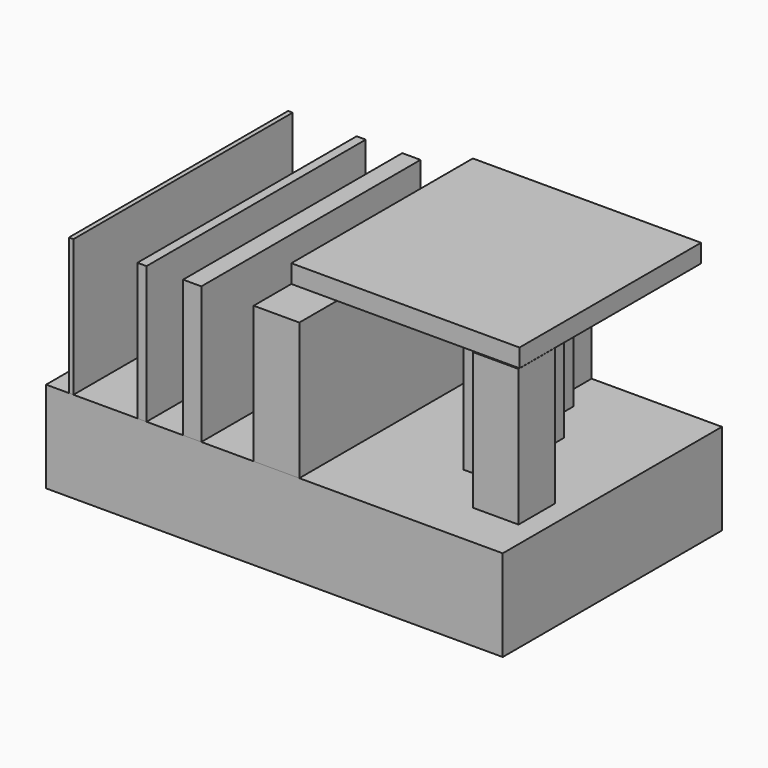
from build123d import *

# Parameters (mm, degrees)
F0_W     = 50
F0_H     = 30
F1_DEPTH = 10
F2_W     = 0.5
F2_H     = 30
F2_W_2   = 1
F2_W_3   = 2
F2_W_4   = 5
F2_H_2   = 5
F3_DEPTH = 15
F4_W     = 24.985239
F4_H     = 24.846307
F5_DEPTH = 2


with BuildPart() as f1:
    # F0 (on Top) → F1 (new body)
    with BuildSketch(Plane.XY):
        with Locations((25, 15)):
            Rectangle(F0_W, F0_H)
    extrude(amount=F1_DEPTH)


with BuildPart() as f3:
    # F2 (on face) → F3 (new body)
    with BuildSketch(Plane.XY.offset(10)):
        with Locations((2.75, 15)):
            Rectangle(F2_W, F2_H)
        with Locations((10.5, 15)):
            Rectangle(F2_W_2, F2_H)
        with Locations((16, 15)):
            Rectangle(F2_W_3, F2_H)
        with Locations((25.228372, 15)):
            Rectangle(F2_W_4, F2_H)
        with Locations((45.228372, 7.5)):
            Rectangle(F2_W_4, F2_H_2)
        Polygon((35.728372, 30), (30.728372, 30), (30.728372, 25), (32.728372, 25), (35.728372, 25), align=None)
        Polygon((37.728372, 25), (35.728372, 25), (32.728372, 25), (32.728372, 20), (35.728372, 20), (37.728372, 20), align=None)
        Polygon((40.728372, 20), (37.728372, 20), (35.728372, 20), (35.728372, 15), (37.728372, 15), (40.728372, 15), align=None)
        Polygon((42.728372, 15), (40.728372, 15), (37.728372, 15), (37.728372, 10), (42.728372, 10), align=None)
    extrude(amount=F3_DEPTH)


with BuildPart() as f5:
    # F4 (on face) → F5 (new body)
    with BuildSketch(Plane.XY.offset(25)):
        with Locations((35.220991, 17.576846)):
            Rectangle(F4_W, F4_H)
    extrude(amount=F5_DEPTH)


solid = Compound([f1.part, f3.part, f5.part])
